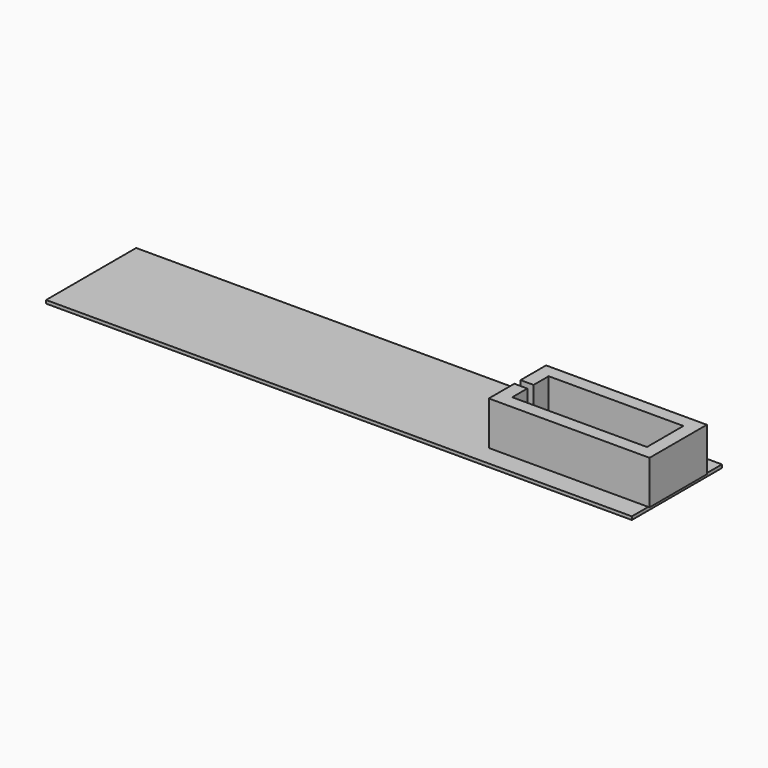
from build123d import *

# Parameters (mm, degrees)
PAD_DEPTH    = 6.7
SKETCH001_W  = 90
SKETCH001_H  = 17.3
PAD001_DEPTH = 0.5


with BuildPart() as part:
    # Sketch (on Sketch) → Pad (new body)
    with BuildSketch(Plane.XY):
        Polygon((-10.35, 3.5), (10.35, 3.5), (10.35, -3.5), (-10.35, -3.5), (-10.35, -0.6), (-12.35, -0.6), (-12.35, -5.5), (12.35, -5.5), (12.35, 5.5), (-12.35, 5.5), (-12.35, 0.6), (-10.35, 0.6), align=None)
    extrude(amount=PAD_DEPTH)

    # Sketch001 → Pad001 (join)
    with BuildSketch(Plane.XY):
        with Locations((-32.851308, 0)):
            Rectangle(SKETCH001_W, SKETCH001_H)
    extrude(amount=-PAD001_DEPTH)


solid = part.part
